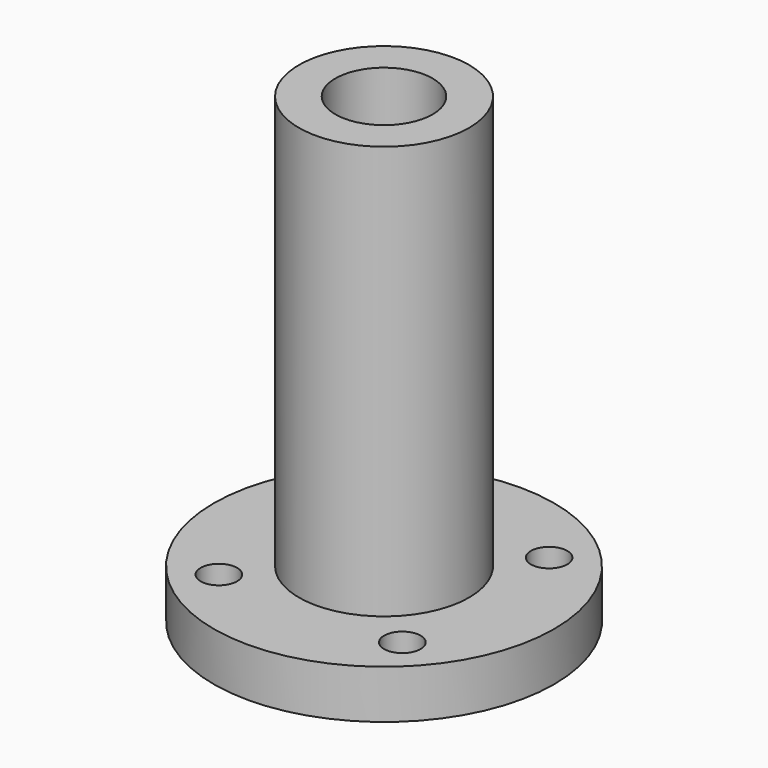
from build123d import *

# Parameters (mm, degrees)
F0_R     = 10.5
F0_R_2   = 6
F1_DEPTH = 57
F0_R_3   = 21
F0_R_4   = 2.25
F2_DEPTH = 6


with BuildPart() as f1:
    # F0 (on Top) → F1 (new body)
    with BuildSketch(Plane.XY):
        with Locations((-9.885688, 3.310709)):
            Circle(F0_R)
        with Locations((-9.885688, 3.310709)):
            Circle(F0_R_2, mode=Mode.SUBTRACT)
    extrude(amount=F1_DEPTH)

    # F0 (on Top) → F2 (join)
    with BuildSketch(Plane.XY):
        with Locations((-9.885688, 3.310709)):
            Circle(F0_R_3)
        with Locations((-21.199397, -8.002999)):
            Circle(F0_R_4, mode=Mode.SUBTRACT)
        with Locations((1.42802, -8.002999)):
            Circle(F0_R_4, mode=Mode.SUBTRACT)
        with Locations((-21.199397, 14.624418)):
            Circle(F0_R_4, mode=Mode.SUBTRACT)
        with Locations((-9.885688, 3.310709)):
            Circle(F0_R, mode=Mode.SUBTRACT)
        with Locations((1.42802, 14.624418)):
            Circle(F0_R_4, mode=Mode.SUBTRACT)
    extrude(amount=F2_DEPTH)


solid = f1.part
